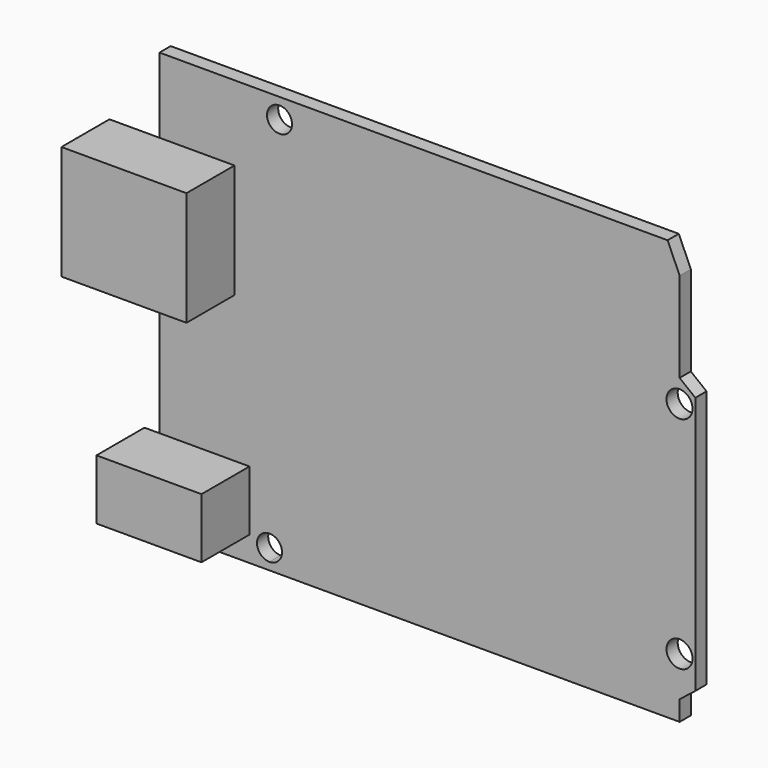
from build123d import *

# Parameters (mm, degrees)
F2_DEPTH = 1.778
F3_D     = 3.302
F4_W     = 6.35
F4_H     = 14.4874919379
F4_W_2   = 9.525
F4_W_3   = 11.43
F4_H_2   = 7.62
F4_W_4   = 1.905
F5_DEPTH = 7.62


with BuildPart() as f2:
    # F0 (on Front) → F2 (new body)
    with BuildSketch(Plane.XZ):
        Polygon((-50.8, 24.0124919379), (-50.8, -29.3275080621), (-36.83, -29.3275080621), (0, -29.3275080621), (15.24, -29.3275080621), (15.24, -26.7875080621), (17.235215947, -25.2156577751), (17.235215947, 7.5503422249), (15.24, 9.122192512), (15.24, 20.552192512), (13.716, 24.0124919379), (-35.56, 24.0124919379), align=None)
        with BuildLine():
            ThreePointArc((-35.2425, -26.7875080621), (-35.7074679849, -27.9100400773), (-36.83, -28.3750080621))
            ThreePointArc((-36.83, -28.3750080621), (-37.9525320151, -25.664976047), (-35.2425, -26.7875080621))
        make_face(mode=Mode.SUBTRACT)
        with BuildLine():
            ThreePointArc((-33.9725, 21.4724919379), (-36.6825320151, 20.3499599227), (-35.56, 23.0599919379))
            ThreePointArc((-35.56, 23.0599919379), (-34.4374679849, 22.595023953), (-33.9725, 21.4724919379))
        make_face(mode=Mode.SUBTRACT)
    extrude(amount=F2_DEPTH)

    # F3 (through all)
    with Locations(Plane(origin=(0, 0, 0), x_dir=(1, 0, 0), z_dir=(0, 1, 0))):
        with Locations((15.2230756357, 21.728583892), (15.2230756357, -6.211416108)):
            Hole(F3_D / 2)

    # F4 (on face) → F5 (join)
    with BuildSketch(Plane.XZ.offset(1.778)):
        with Locations((-53.975, 7.2437459689)):
            Rectangle(F4_W, F4_H)
        with Locations((-46.0375, 7.2437459689)):
            Rectangle(F4_W_2, F4_H)
        with Locations((-45.085, -22.3425080621)):
            Rectangle(F4_W_3, F4_H_2)
        with Locations((-51.7525, -22.3425080621)):
            Rectangle(F4_W_4, F4_H_2)
    extrude(amount=F5_DEPTH)


solid = f2.part
